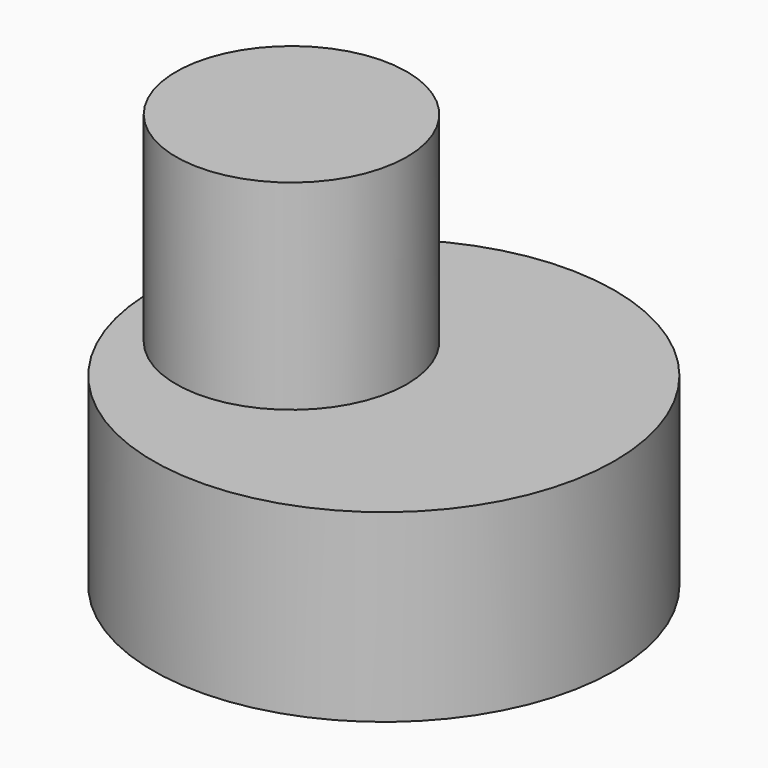
from build123d import *

# Parameters (mm, degrees)
F0_R     = 7.5
F1_DEPTH = 3
F2_R     = 15
F2_R_2   = 7.5
F3_DEPTH = 12
F4_R     = 7.5
F5_DEPTH = 25


with BuildPart() as f1:
    # F0 (on Top) → F1 (new body)
    with BuildSketch(Plane.XY):
        Circle(F0_R)
    extrude(amount=F1_DEPTH)


with BuildPart() as f3:
    # F2 (on face) → F3 (new body)
    with BuildSketch(Plane.XY.offset(3)):
        with Locations((6, 0)):
            Circle(F2_R)
        Circle(F2_R_2, mode=Mode.SUBTRACT)
    extrude(amount=F3_DEPTH)


with BuildPart() as f5:
    # F4 (on face) → F5 (new body)
    with BuildSketch(Plane.XY.offset(3)):
        Circle(F4_R)
    extrude(amount=F5_DEPTH)


solid = Compound([f1.part, f3.part, f5.part])
